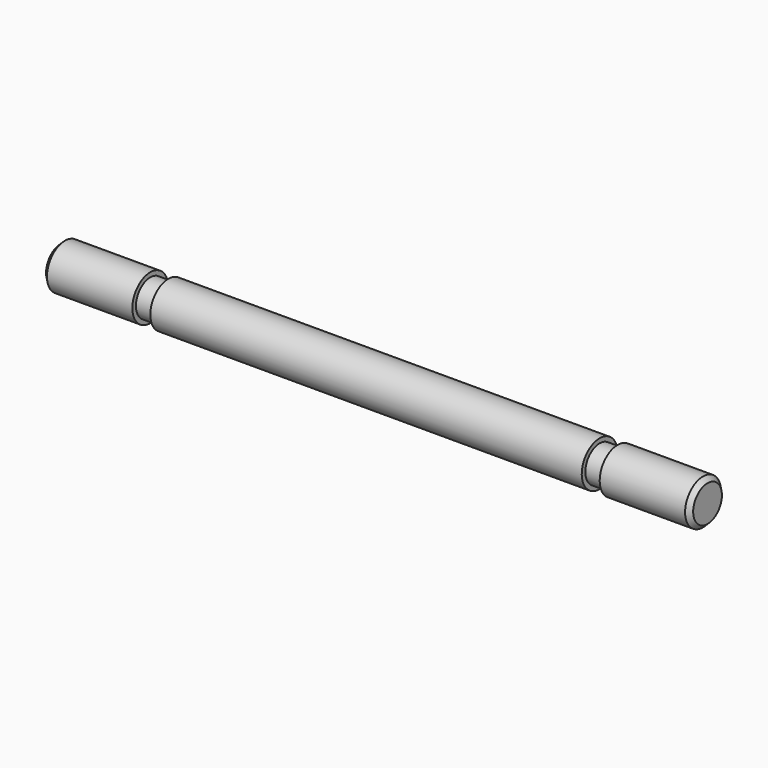
from build123d import *

# Parameters (mm, degrees)
F2_SIZE = 0.25


with BuildPart() as f1:
    # F0 (on Front) → F1 (revolve)
    with BuildSketch(Plane.XZ):
        Polygon((80.8070451021, 45.6162330286), (98.8070451021, 45.6162330286), (98.8070451021, 46.8662330286), (93.8070451021, 46.8662330286), (93.8070451021, 46.6162330286), (92.8070451021, 46.6162330286), (92.8070451021, 46.8662330286), (80.8070451021, 46.8662330286), align=None)
        Polygon((62.8070451021, 45.6162330286), (80.8070451021, 45.6162330286), (80.8070451021, 46.8662330286), (68.8070451021, 46.8662330286), (68.8070451021, 46.6162330286), (67.8070451021, 46.6162330286), (67.8070451021, 46.8662330286), (62.8070451021, 46.8662330286), align=None)
    revolve(axis=Axis((89.8070451021, 0, 45.6162330286), (1, 0, 0)))

    # F2
    f2_edges = [f1.edges().sort_by_distance(p)[0] for p in [
        (98.807045, 0, 44.366233),
        (62.807045, 0, 44.366233),
    ]]
    chamfer(f2_edges, length=F2_SIZE)


solid = f1.part
